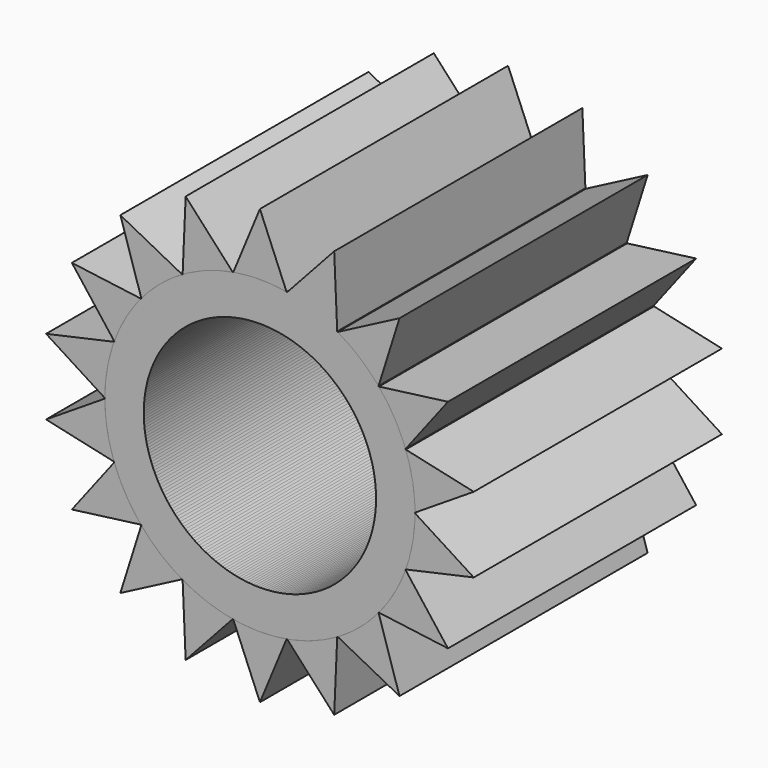
from build123d import *

# Parameters (mm, degrees)
F0_R     = 12.7
F0_R_2   = 9.525
F1_DEPTH = 12.7
F3_DEPTH = 25.4
F5_COUNT = 18


with BuildPart() as f1:
    # F0 (on Front) → F1 (new body, symmetric)
    with BuildSketch(Plane.XZ):
        Circle(F0_R)
        Circle(F0_R_2, mode=Mode.SUBTRACT)
    extrude(amount=F1_DEPTH, both=True)

    # F2 (on face) → F3 (join)
    with BuildSketch(Plane.XZ.offset(12.7)):
        Polygon((2.182463, 12.511069), (0, 17.78), (-2.182463, 12.511069), align=None)
    extrude(amount=-F3_DEPTH)


with BuildPart() as f5_1:
    # F5: instance of F1
    add(f1.part.rotate(Axis((0, 1.260008, 0), (0, -1, 0)), 1 * 360 / F5_COUNT))


with BuildPart() as f5_2:
    # F5: instance of F1
    add(f1.part.rotate(Axis((0, 1.260008, 0), (0, -1, 0)), 2 * 360 / F5_COUNT))


with BuildPart() as f5_3:
    # F5: instance of F1
    add(f1.part.rotate(Axis((0, 1.260008, 0), (0, -1, 0)), 3 * 360 / F5_COUNT))


with BuildPart() as f5_4:
    # F5: instance of F1
    add(f1.part.rotate(Axis((0, 1.260008, 0), (0, -1, 0)), 4 * 360 / F5_COUNT))


with BuildPart() as f5_5:
    # F5: instance of F1
    add(f1.part.rotate(Axis((0, 1.260008, 0), (0, -1, 0)), 5 * 360 / F5_COUNT))


with BuildPart() as f5_6:
    # F5: instance of F1
    add(f1.part.rotate(Axis((0, 1.260008, 0), (0, -1, 0)), 6 * 360 / F5_COUNT))


with BuildPart() as f5_7:
    # F5: instance of F1
    add(f1.part.rotate(Axis((0, 1.260008, 0), (0, -1, 0)), 7 * 360 / F5_COUNT))


with BuildPart() as f5_8:
    # F5: instance of F1
    add(f1.part.rotate(Axis((0, 1.260008, 0), (0, -1, 0)), 8 * 360 / F5_COUNT))


with BuildPart() as f5_9:
    # F5: instance of F1
    add(f1.part.rotate(Axis((0, 1.260008, 0), (0, -1, 0)), 9 * 360 / F5_COUNT))


with BuildPart() as f5_10:
    # F5: instance of F1
    add(f1.part.rotate(Axis((0, 1.260008, 0), (0, -1, 0)), 10 * 360 / F5_COUNT))


with BuildPart() as f5_11:
    # F5: instance of F1
    add(f1.part.rotate(Axis((0, 1.260008, 0), (0, -1, 0)), 11 * 360 / F5_COUNT))


with BuildPart() as f5_12:
    # F5: instance of F1
    add(f1.part.rotate(Axis((0, 1.260008, 0), (0, -1, 0)), 12 * 360 / F5_COUNT))


with BuildPart() as f5_13:
    # F5: instance of F1
    add(f1.part.rotate(Axis((0, 1.260008, 0), (0, -1, 0)), 13 * 360 / F5_COUNT))


with BuildPart() as f5_14:
    # F5: instance of F1
    add(f1.part.rotate(Axis((0, 1.260008, 0), (0, -1, 0)), 14 * 360 / F5_COUNT))


with BuildPart() as f5_15:
    # F5: instance of F1
    add(f1.part.rotate(Axis((0, 1.260008, 0), (0, -1, 0)), 15 * 360 / F5_COUNT))


with BuildPart() as f5_16:
    # F5: instance of F1
    add(f1.part.rotate(Axis((0, 1.260008, 0), (0, -1, 0)), 16 * 360 / F5_COUNT))


with BuildPart() as f5_17:
    # F5: instance of F1
    add(f1.part.rotate(Axis((0, 1.260008, 0), (0, -1, 0)), 17 * 360 / F5_COUNT))


solid = Compound([f1.part, f5_1.part, f5_2.part, f5_3.part, f5_4.part, f5_5.part, f5_6.part, f5_7.part, f5_8.part, f5_9.part, f5_10.part, f5_11.part, f5_12.part, f5_13.part, f5_14.part, f5_15.part, f5_16.part, f5_17.part])
